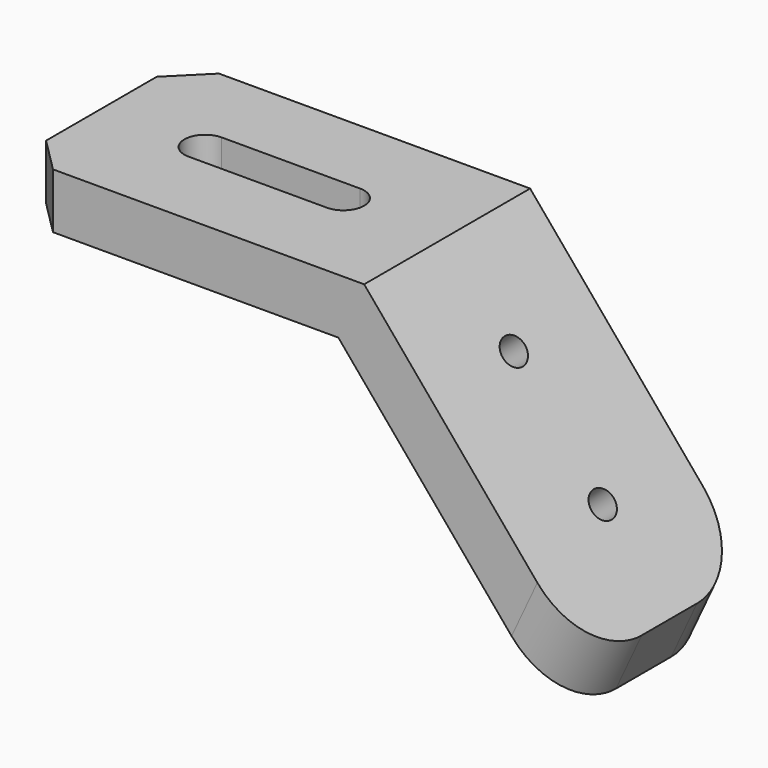
from build123d import *

# Parameters (mm, degrees)
F1_DEPTH = 15
F3_DEPTH = 46.3032221559
F5_D     = 4
F6_R     = 10
F7_SIZE  = 5


with BuildPart() as f1:
    # F0 (on Front) → F1 (new body, symmetric)
    with BuildSketch(Plane.XZ):
        Polygon((0, 8), (0, 0), (46.2695387348, 0), (78.4089192191, -38.3022221559), (82.1393804843, -30.3022221559), (50, 8), align=None)
    extrude(amount=F1_DEPTH, both=True)

    # F2 (on face) → F3 (cut, through all)
    with BuildSketch(Plane.XY.offset(8)):
        with BuildLine():
            ThreePointArc((15, 3), (12, 0), (15, -3))
            Line((15, -3), (35, -3))
            ThreePointArc((35, -3), (38, 0), (35, 3))
            Line((35, 3), (15, 3))
        make_face()
    extrude(amount=-F3_DEPTH, mode=Mode.SUBTRACT)

    # F5 (through all)
    with Locations(Plane(origin=(33.2804354537, 0, 27.9256011146), x_dir=(0, 1, 0), z_dir=(0.7660444431, 0, 0.6427876097))):
        with Locations((0, -41.0110249394), (0, -61.0110249394)):
            Hole(F5_D / 2)

    # F6
    f6_edges = [f1.edges().sort_by_distance(p)[0] for p in [
        (80.27415, -15, -34.302222),
        (80.27415, 15, -34.302222),
    ]]
    fillet(f6_edges, radius=F6_R)

    # F7
    f7_edges = [f1.edges().sort_by_distance(p)[0] for p in [
        (0, 15, 4),
        (0, -15, 4),
    ]]
    chamfer(f7_edges, length=F7_SIZE)


solid = f1.part
